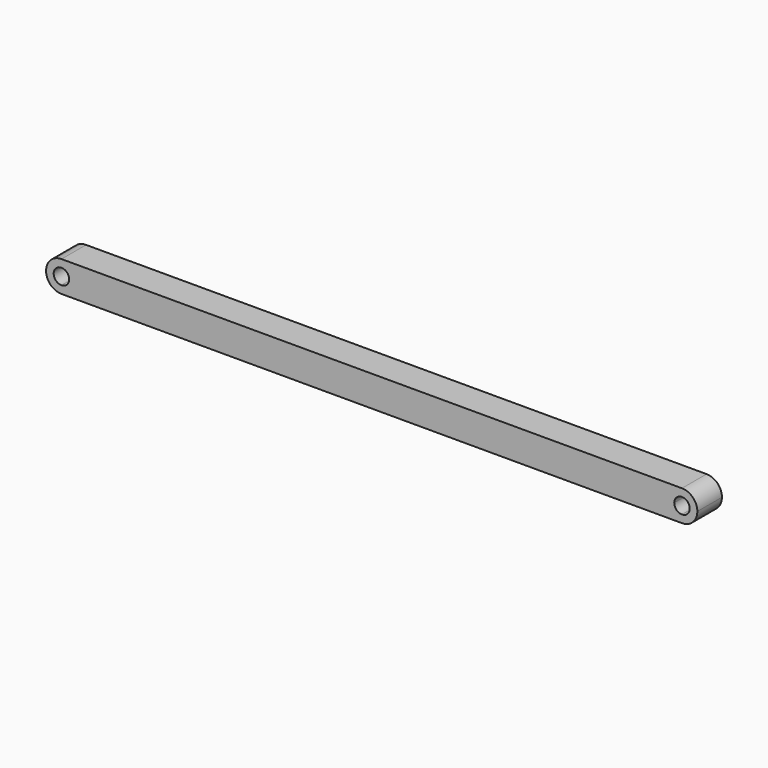
from build123d import *

# Parameters (mm, degrees)
F1_DEPTH = 6.35


with BuildPart() as f1:
    # F0 (on Front) → F1 (new body)
    with BuildSketch(Plane.XZ):
        with BuildLine():
            ThreePointArc((0, 1.6), (1.1313708499, 1.1313708499), (1.6, 0))
            ThreePointArc((1.6, 0), (1.1313708499, -1.1313708499), (0, -1.6))
            Line((0, -1.6), (0, -3.175))
            ThreePointArc((0, -3.175), (2.2450640303, -2.2450640303), (3.175, 0))
            ThreePointArc((3.175, 0), (2.2450640303, 2.2450640303), (0, 3.175))
            Line((0, 3.175), (0, 1.6))
        make_face()
        with BuildLine():
            ThreePointArc((-1.6, 0), (-1.1313708499, 1.1313708499), (0, 1.6))
            Line((0, 1.6), (0, 3.175))
            ThreePointArc((0, 3.175), (-2.2450640303, 2.2450640303), (-3.175, 0))
            Line((-3.175, 0), (-1.6, 0))
        make_face()
        with BuildLine():
            Line((0, -3.175), (0, -1.6))
            ThreePointArc((0, -1.6), (-1.1313708499, -1.1313708499), (-1.6, 0))
            Line((-1.6, 0), (-3.175, 0))
            ThreePointArc((-3.175, 0), (-2.2450640303, -2.2450640303), (0, -3.175))
        make_face()
        with BuildLine():
            ThreePointArc((-3.175, 0), (-2.2450640303, 2.2450640303), (0, 3.175))
            Line((0, 3.175), (-128.2390823674, 3.1749812291))
            ThreePointArc((-128.2390823674, 3.1749812291), (-126.0010793162, 2.2412007403), (-125.075, 0))
            Line((-125.075, 0), (-3.175, 0))
        make_face()
        with BuildLine():
            Line((-128.25, -3.175), (0, -3.175))
            ThreePointArc((0, -3.175), (-2.2450640303, -2.2450640303), (-3.175, 0))
            Line((-3.175, 0), (-125.075, 0))
            ThreePointArc((-125.075, 0), (-126.0049359697, -2.2450640303), (-128.25, -3.175))
        make_face()
        with BuildLine():
            Line((-128.2417899522, 1.6001789385), (-128.2390823674, 3.1749812291))
            ThreePointArc((-128.2390823674, 3.1749812291), (-131.4249953073, 0.0054588244), (-128.25, -3.175))
            Line((-128.25, -3.175), (-128.2472924152, -1.6001977093))
            ThreePointArc((-128.2472924152, -1.6001977093), (-129.8501976349, 0.0027512475), (-128.2417899522, 1.6001789385))
        make_face()
        with BuildLine():
            ThreePointArc((-125.075, 0), (-126.0010793162, 2.2412007403), (-128.2390823674, 3.1749812291))
            Line((-128.2390823674, 3.1749812291), (-128.2417899522, 1.6001789385))
            ThreePointArc((-128.2417899522, 1.6001789385), (-127.1155887521, 1.1286058483), (-126.6498, 0))
            Line((-126.6498, 0), (-125.075, 0))
        make_face()
        with BuildLine():
            Line((-128.2472924152, -1.6001977093), (-128.25, -3.175))
            ThreePointArc((-128.25, -3.175), (-126.0049359697, -2.2450640303), (-125.075, 0))
            Line((-125.075, 0), (-126.6498, 0))
            ThreePointArc((-126.6498, 0), (-127.1175308575, -1.1305545902), (-128.2472924152, -1.6001977093))
        make_face()
    extrude(amount=F1_DEPTH)


solid = f1.part
